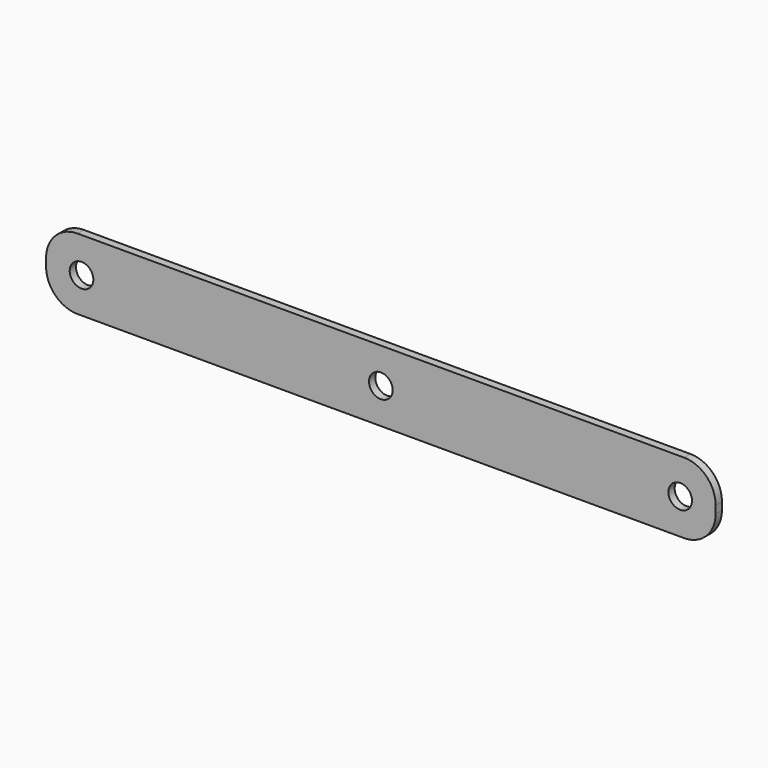
from build123d import *

# Parameters (mm, degrees)
F0_W     = 85
F0_H     = 9
F0_R     = 1.5
F1_DEPTH = 1
F2_R     = 4


with BuildPart() as f1:
    # F0 (on Front) → F1 (new body)
    with BuildSketch(Plane.XZ):
        Rectangle(F0_W, F0_H)
        with Locations((-38, 0)):
            Circle(F0_R, mode=Mode.SUBTRACT)
        Circle(F0_R, mode=Mode.SUBTRACT)
        with Locations((38, 0)):
            Circle(F0_R, mode=Mode.SUBTRACT)
    extrude(amount=F1_DEPTH)

    # F2
    f2_edges = [f1.edges().sort_by_distance(p)[0] for p in [
        (-42.5, -0.5, 4.5),
        (-42.5, -0.5, -4.5),
        (42.5, -0.5, -4.5),
        (42.5, -0.5, 4.5),
    ]]
    fillet(f2_edges, radius=F2_R)


solid = f1.part
